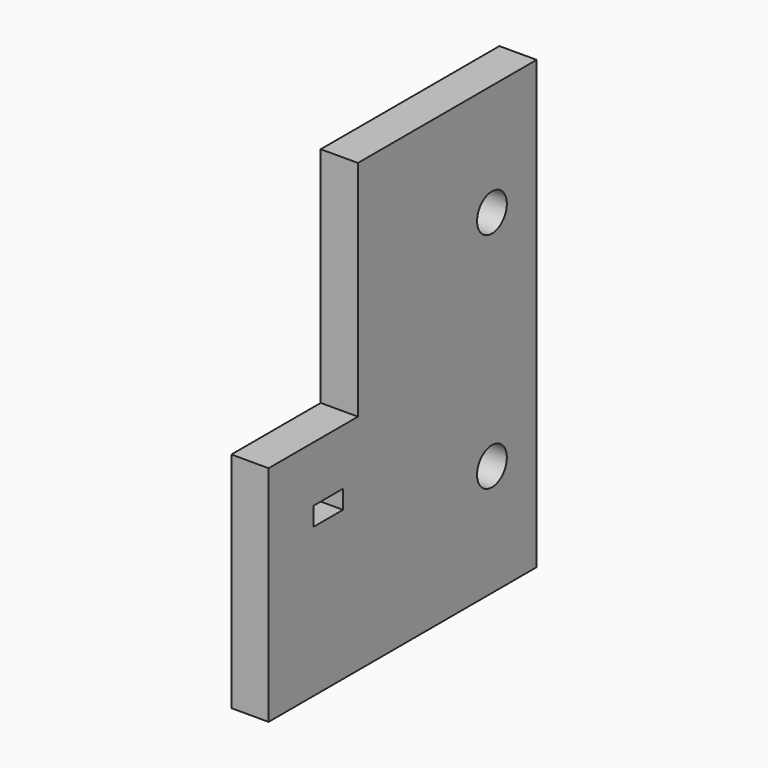
from build123d import *

# Parameters (mm, degrees)
F0_R     = 12.7
F1_DEPTH = 25.4
F2_W     = 25.4
F2_H     = 12.7
F3_DEPTH = 25.4


with BuildPart() as f1:
    # F0 (on Right) → F1 (new body)
    with BuildSketch(Plane.YZ):
        Polygon((114.3, -152.4), (114.3, 152.4), (-38.1, 152.4), (-38.1, 0), (-114.3, 0), (-114.3, -152.4), align=None)
        with Locations((76.2, -76.2)):
            Circle(F0_R, mode=Mode.SUBTRACT)
        with Locations((76.2, 76.2)):
            Circle(F0_R, mode=Mode.SUBTRACT)
    extrude(amount=F1_DEPTH)

    # F2 (on face) → F3 (cut)
    with BuildSketch(Plane(origin=(0, 0, 0), x_dir=(0, -1, 0), z_dir=(-1, 0, 0))):
        with Locations((63.5, -44.45)):
            Rectangle(F2_W, F2_H)
    extrude(amount=-F3_DEPTH, mode=Mode.SUBTRACT)


solid = f1.part
